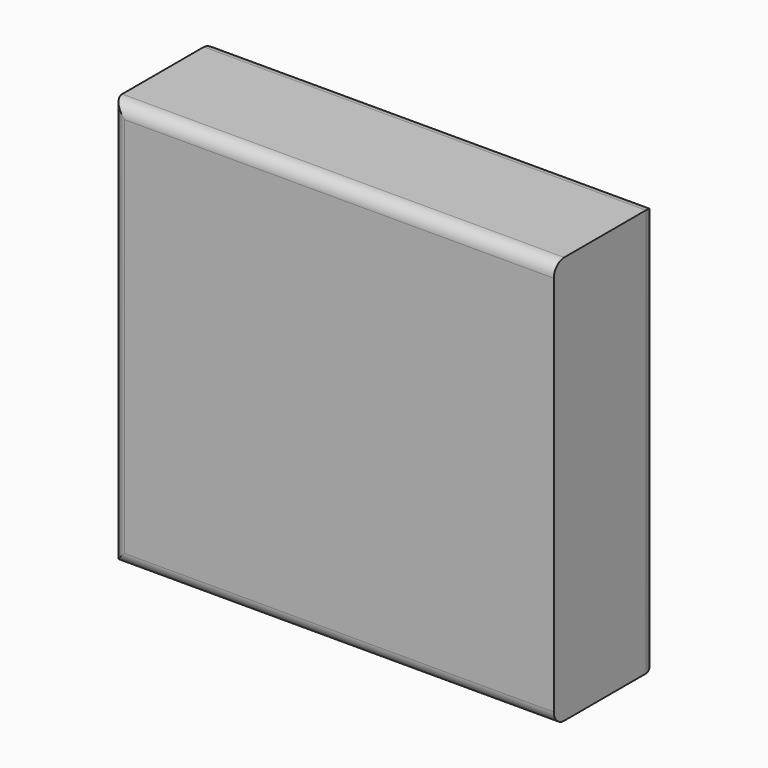
from build123d import *

# Parameters (mm, degrees)
F0_W     = 172.589735
F0_H     = 159.237757
F1_DEPTH = 50
F2_R     = 5.08


with BuildPart() as f1:
    # F0 (on Front) → F1 (new body)
    with BuildSketch(Plane.XZ):
        with Locations((-0.976942, -0.28202)):
            Rectangle(F0_W, F0_H)
    extrude(amount=F1_DEPTH)

    # F2
    f2_edges = [f1.edges().sort_by_distance(p)[0] for p in [
        (-0.976942, -50, 79.336859),
        (-87.27181, -50, -0.282019),
        (-0.976942, 0, 79.336859),
        (85.317925, 0, -0.282019),
        (-87.27181, 0, -0.282019),
        (-0.976942, 0, -79.900898),
        (-0.976942, -50, -79.900898),
    ]]
    fillet(f2_edges, radius=F2_R)


solid = f1.part
